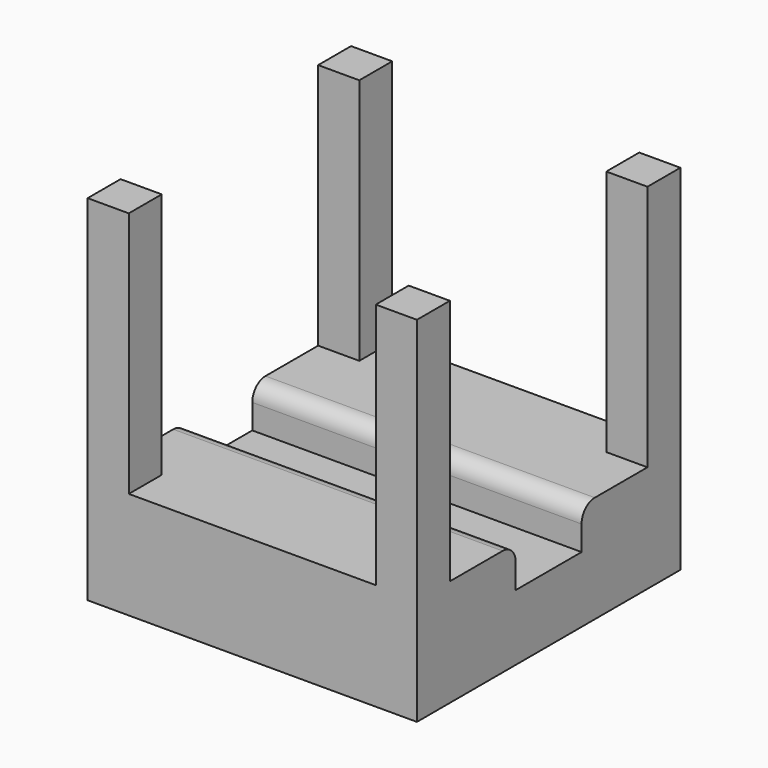
from build123d import *

# Parameters (mm, degrees)
F0_W     = 101.6
F0_H     = 101.6
F1_DEPTH = 33.02
F2_W     = 12.7
F2_H     = 12.7
F3_DEPTH = 76.2
F4_W     = 101.6
F4_H     = 25.4
F5_DEPTH = 12.7
F6_R     = 5.08


with BuildPart() as f1:
    # F0 (on Top) → F1 (new body)
    with BuildSketch(Plane.XY):
        Rectangle(F0_W, F0_H)
    extrude(amount=F1_DEPTH)

    # F2 (on face) → F3 (join)
    with BuildSketch(Plane.XY.offset(33.02)):
        with Locations((44.45, -44.45)):
            Rectangle(F2_W, F2_H)
        with Locations((-44.45, -44.45)):
            Rectangle(F2_W, F2_H)
        with Locations((-44.45, 44.45)):
            Rectangle(F2_W, F2_H)
        with Locations((44.45, 44.45)):
            Rectangle(F2_W, F2_H)
    extrude(amount=F3_DEPTH)

    # F4 (on face) → F5 (cut)
    with BuildSketch(Plane.XY.offset(33.02)):
        Rectangle(F4_W, F4_H)
    extrude(amount=-F5_DEPTH, mode=Mode.SUBTRACT)

    # F6
    f6_edges = [f1.edges().sort_by_distance(p)[0] for p in [
        (0, 12.7, 33.02),
        (0, -12.7, 33.02),
    ]]
    fillet(f6_edges, radius=F6_R)


solid = f1.part
